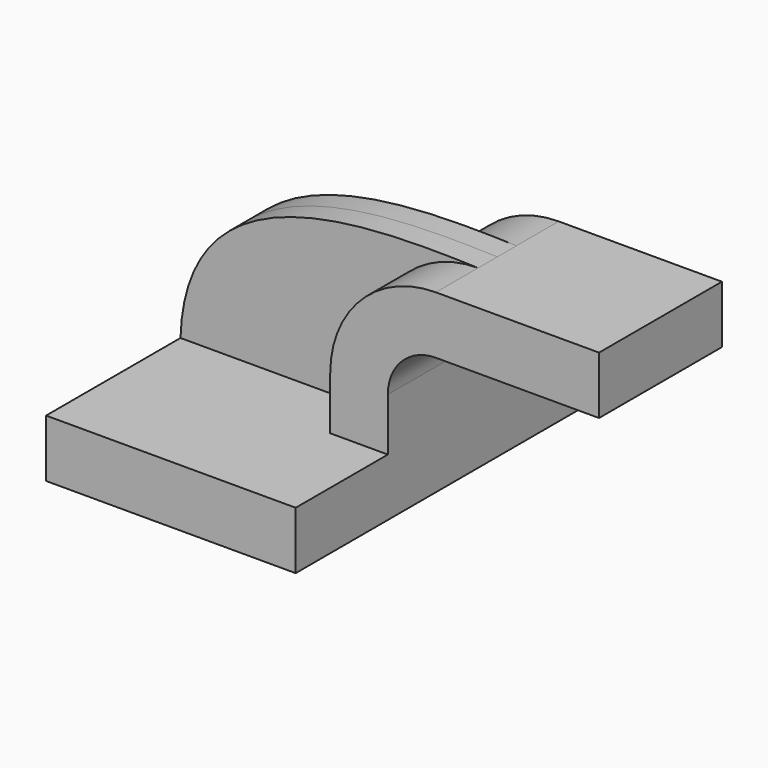
from build123d import *

# Parameters (mm, degrees)
F1_DEPTH = 63.5
F0_W     = 50.8
F0_H     = 19.05
F2_DEPTH = 25.4
F3_DEPTH = 7.9375


with BuildPart() as f1:
    # F0 (on Front) → F1 (new body, symmetric)
    with BuildSketch(Plane.XZ):
        Polygon((41.275, -9.525), (41.275, 9.525), (22.225, 9.525), (-41.275, 9.525), (-41.275, -9.525), align=None)
    extrude(amount=F1_DEPTH, both=True)

    # F0 (on Front) → F2 (join, symmetric)
    with BuildSketch(Plane.XZ):
        with BuildLine():
            Line((22.225, 9.525), (41.275, 9.525))
            Line((41.275, 9.525), (41.275, 27.0002))
            ThreePointArc((41.275, 27.0002), (45.9246798487, 38.2255201513), (57.15, 42.8752))
            Line((57.15, 42.8752), (60.325, 42.8752))
            Line((60.325, 42.8752), (60.325, 61.9252))
            Line((60.325, 61.9252), (57.15, 61.9252))
            ThreePointArc((57.15, 61.9252), (32.4542956671, 51.6959043329), (22.225, 27.0002))
            Line((22.225, 27.0002), (22.225, 9.525))
        make_face()
        with Locations((85.725, 52.4002)):
            Rectangle(F0_W, F0_H)
    extrude(amount=F2_DEPTH, both=True)

    # F0 (on Front) → F3 (join, symmetric)
    with BuildSketch(Plane.XZ):
        with BuildLine():
            Line((-41.275, 9.525), (22.225, 9.525))
            Line((22.225, 9.525), (22.225, 27.0002))
            ThreePointArc((22.225, 27.0002), (32.4542956671, 51.6959043329), (57.15, 61.9252))
            add(Edge.make_bspline(
                [(-41.275, 9.525), (-39.5729020238, 63.4139552712), (19.462088123, 63.0895867944), (57.15, 61.9252)],
                knots=[0, 0, 0, 0, 111.5045361635, 111.5045361635, 111.5045361635, 111.5045361635], degree=3))
        make_face()
    extrude(amount=F3_DEPTH, both=True)


solid = f1.part
